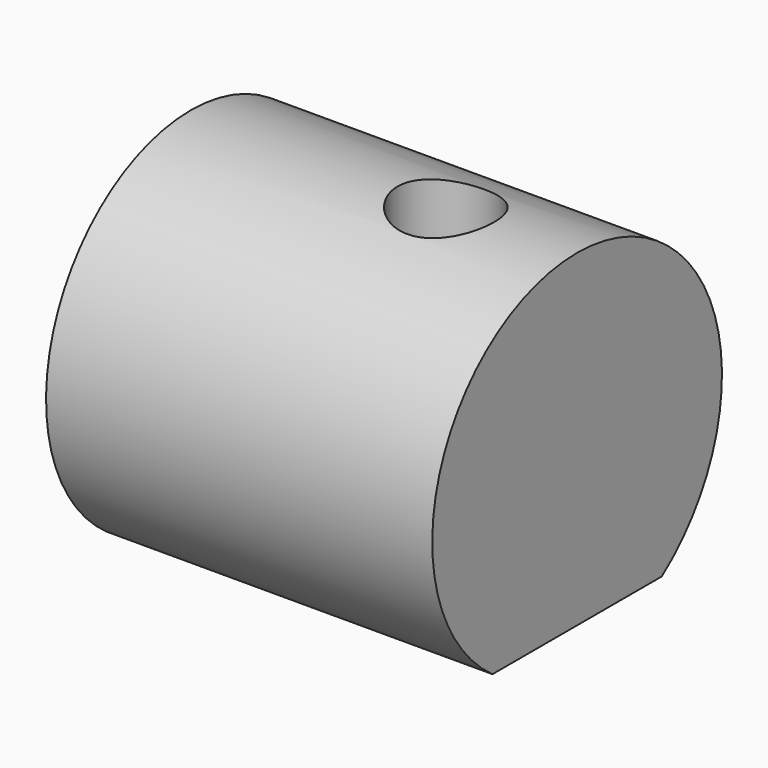
from build123d import *

# Parameters (mm, degrees)
F1_DEPTH = 50.8
F3_D     = 12.7
F3_DEPTH = 50.8


with BuildPart() as f1:
    # F0 (on Right) → F1 (new body)
    with BuildSketch(Plane.YZ):
        with BuildLine():
            Line((-13.915304, -1.645476), (13.915304, -1.645476))
            ThreePointArc((13.915304, -1.645476), (0, 41.490571), (-13.915304, -1.645476))
        make_face()
    extrude(amount=F1_DEPTH)

    # F3
    with Locations(Plane(origin=(0, 0, -1.645476), x_dir=(1, 0, 0), z_dir=(0, 0, -1))):
        with Locations((33.531934, 0)):
            Hole(F3_D / 2, depth=F3_DEPTH)


solid = f1.part
